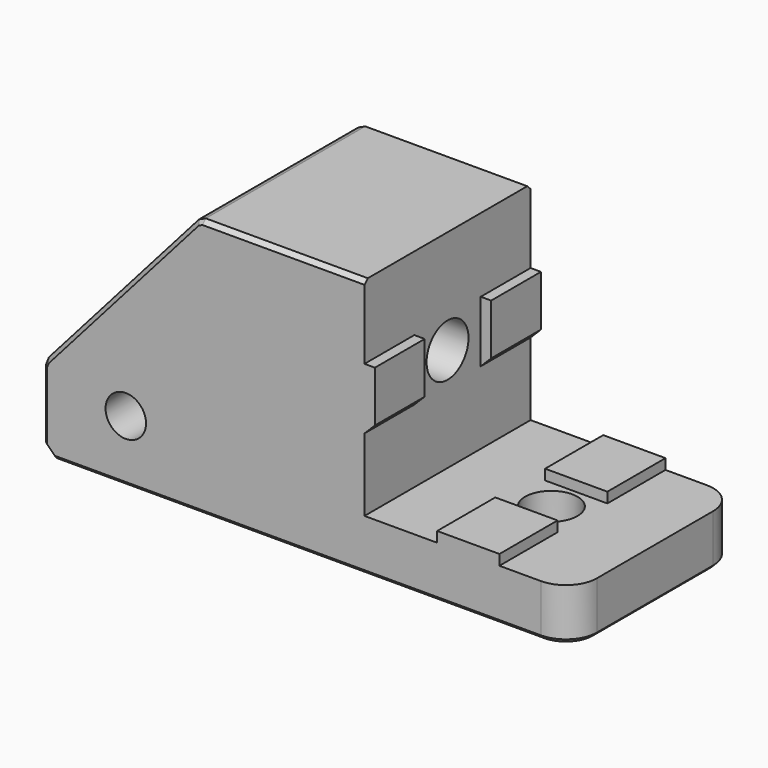
from build123d import *

# Parameters (mm, degrees)
CYLINDER012_R                      = 1.95
CYLINDER012_DEPTH                  = 10
CYLINDER011_R                      = 1.95
CYLINDER011_DEPTH                  = 10
CYLINDER007_R                      = 2.525
CYLINDER007_DEPTH                  = 37
CYLINDER008_R                      = 4.75
CYLINDER008_DEPTH                  = 13
CYLINDER006_R                      = 2.65
CYLINDER006_DEPTH                  = 2
CYLINDER005_R                      = 6.55
CYLINDER005_DEPTH                  = 5
BOX023_W                           = 12
BOX023_H                           = 8
BOX023_DEPTH                       = 10
BOX019_W                           = 2
BOX019_H                           = 6
BOX019_DEPTH                       = 5.9
BOX020_W                           = 2
BOX020_H                           = 6
BOX020_DEPTH                       = 5.9
CHAMFER004013007011015006006_SIZE  = 1
CYLINDER009_R                      = 2.525
CYLINDER009_DEPTH                  = 10
BOX018_W                           = 20
BOX018_H                           = 20
BOX018_DEPTH                       = 5
FILLET_R                           = 3
BOX021_W                           = 6
BOX021_H                           = 7
BOX021_DEPTH                       = 1
BOX022_W                           = 6
BOX022_H                           = 7
BOX022_DEPTH                       = 1
BOX017_W                           = 31
BOX017_H                           = 20
BOX017_DEPTH                       = 25
CHAMFER004013007011015006005_SIZE2 = 15
CHAMFER004013007011015006005_SIZE  = 17
CHAMFER004013007011015006007_SIZE  = 1
CHAMFER004013007011015006008_SIZE  = 0.4


with BuildPart() as cylinder012:
    # Cylinder012 → Cylinder012 (new body)
    with BuildSketch(Plane(origin=(24, 14, 41), x_dir=(1, 0, 0), z_dir=(0, -1, 0))):
        Circle(CYLINDER012_R)
    extrude(amount=CYLINDER012_DEPTH)


with BuildPart() as fusion004023:
    # Cylinder011 → Cylinder011 (new body)
    with BuildSketch(Plane(origin=(24, -4, 41), x_dir=(1, 0, 0), z_dir=(0, -1, 0))):
        Circle(CYLINDER011_R)
    extrude(amount=CYLINDER011_DEPTH)

    # Fusion004023: union Cylinder012
    add(cylinder012.part)


with BuildPart() as cylinder007:
    # Cylinder007 → Cylinder007 (new body)
    with BuildSketch(Plane(origin=(14, 0, 50), x_dir=(0, 0, -1), z_dir=(1, 0, 0))):
        Circle(CYLINDER007_R)
    extrude(amount=CYLINDER007_DEPTH)


with BuildPart() as fusion004019:
    # Cylinder008 → Cylinder008 (new body)
    with BuildSketch(Plane(origin=(14, 0, 50), x_dir=(0, 0, -1), z_dir=(1, 0, 0))):
        Circle(CYLINDER008_R)
    extrude(amount=CYLINDER008_DEPTH)

    # Fusion004019: union Cylinder007
    add(cylinder007.part)


with BuildPart() as cylinder006:
    # Cylinder006 → Cylinder006 (new body)
    with BuildSketch(Plane.XY.offset(3)):
        Circle(CYLINDER006_R)
    extrude(amount=CYLINDER006_DEPTH)


with BuildPart() as cut028006004005005:
    # Cylinder005 → Cylinder005 (new body)
    with BuildSketch(Plane.XY):
        Circle(CYLINDER005_R)
    extrude(amount=CYLINDER005_DEPTH)

    # Cut028006004005005: cut Cylinder006
    add(cylinder006.part, mode=Mode.SUBTRACT)


with BuildPart() as cut028006004005005_1:
    # Cut028006004005005 placement: moved
    add(cut028006004005005.part.moved(Location((22, 0, 33))))


with BuildPart() as fusion004022:
    # Box023 → Box023 (new body)
    with BuildSketch(Plane(origin=(7, -4, 28), x_dir=(1, 0, 0), z_dir=(0, 0, 1))):
        with Locations((6, 4)):
            Rectangle(BOX023_W, BOX023_H)
    extrude(amount=BOX023_DEPTH)

    # Fusion004022: union Cut028006004005005
    add(cut028006004005005_1.part)


with BuildPart() as cube019:
    # Box019 → Box019 (new body)
    with BuildSketch(Plane(origin=(46, -10, 47), x_dir=(1, 0, 0), z_dir=(0, 0, 1))):
        with Locations((1, 3)):
            Rectangle(BOX019_W, BOX019_H)
    extrude(amount=BOX019_DEPTH)


with BuildPart() as chamfer004013007011015006006:
    # Box020 → Box020 (new body)
    with BuildSketch(Plane(origin=(46, 4, 47), x_dir=(1, 0, 0), z_dir=(0, 0, 1))):
        with Locations((1, 3)):
            Rectangle(BOX020_W, BOX020_H)
    extrude(amount=BOX020_DEPTH)

    # Fusion004018: union Cube019
    add(cube019.part)

    # Chamfer004013007011015006006
    chamfer004013007011015006006_edges = [chamfer004013007011015006006.edges().sort_by_distance(p)[0] for p in [
        (48, 7, 47),
        (48, -7, 47),
    ]]
    chamfer(chamfer004013007011015006006_edges, length=CHAMFER004013007011015006006_SIZE)


with BuildPart() as cylinder009:
    # Cylinder009 → Cylinder009 (new body)
    with BuildSketch(Plane(origin=(57, 0, 32), x_dir=(1, 0, 0), z_dir=(0, 0, 1))):
        Circle(CYLINDER009_R)
    extrude(amount=CYLINDER009_DEPTH)


with BuildPart() as fillet_body:
    # Box018 → Box018 (new body)
    with BuildSketch(Plane(origin=(47, -10, 35), x_dir=(1, 0, 0), z_dir=(0, 0, 1))):
        with Locations((10, 10)):
            Rectangle(BOX018_W, BOX018_H)
    extrude(amount=BOX018_DEPTH)

    # Fillet
    fillet_edges = [fillet_body.edges().sort_by_distance(p)[0] for p in [
        (67, -10, 37.5),
        (67, 10, 37.5),
    ]]
    fillet(fillet_edges, radius=FILLET_R)


with BuildPart() as cube021:
    # Box021 → Box021 (new body)
    with BuildSketch(Plane(origin=(54, -10, 40), x_dir=(1, 0, 0), z_dir=(0, 0, 1))):
        with Locations((3, 3.5)):
            Rectangle(BOX021_W, BOX021_H)
    extrude(amount=BOX021_DEPTH)


with BuildPart() as cut028006004005004:
    # Box022 → Box022 (new body)
    with BuildSketch(Plane(origin=(54, 3, 40), x_dir=(1, 0, 0), z_dir=(0, 0, 1))):
        with Locations((3, 3.5)):
            Rectangle(BOX022_W, BOX022_H)
    extrude(amount=BOX022_DEPTH)

    # Fusion004020: union Fillet body, Cube021
    add(fillet_body.part)
    add(cube021.part)

    # Cut028006004005004: cut Cylinder009
    add(cylinder009.part, mode=Mode.SUBTRACT)


with BuildPart() as obj1:
    # Box017 → Box017 (new body)
    with BuildSketch(Plane(origin=(16, -10, 35), x_dir=(1, 0, 0), z_dir=(0, 0, 1))):
        with Locations((15.5, 10)):
            Rectangle(BOX017_W, BOX017_H)
    extrude(amount=BOX017_DEPTH)

    # Chamfer004013007011015006005
    chamfer004013007011015006005_edges = [obj1.edges().sort_by_distance(p)[0] for p in [
        (16, 0, 60),
    ]]
    chamfer004013007011015006005_side = obj1.faces().sort_by_distance((16, 0, 47.5))[0]
    chamfer(chamfer004013007011015006005_edges, length=CHAMFER004013007011015006005_SIZE, length2=CHAMFER004013007011015006005_SIZE2, reference=chamfer004013007011015006005_side)

    # Fusion004021: union Chamfer004013007011015006006, Cut028006004005004
    add(chamfer004013007011015006006.part)
    add(cut028006004005004.part)

    # Cut028006004005006: cut Fusion004022
    add(fusion004022.part, mode=Mode.SUBTRACT)

    # Chamfer004013007011015006007
    chamfer004013007011015006007_edges = [obj1.edges().sort_by_distance(p)[0] for p in [
        (16, 7, 35),
        (16, -7, 35),
    ]]
    chamfer(chamfer004013007011015006007_edges, length=CHAMFER004013007011015006007_SIZE)

    # Cut028006004005007: cut Fusion004019
    add(fusion004019.part, mode=Mode.SUBTRACT)

    # Chamfer004013007011015006008
    chamfer004013007011015006008_edges = [obj1.edges().sort_by_distance(p)[0] for p in [
        (16, 10, 39.5),
        (16, 0, 43),
        (16, -10, 39.5),
        (16.5, 10, 35.5),
        (23.5, 10, 51.5),
        (32, 10, 35),
        (39, 10, 60),
        (23.5, -10, 51.5),
        (31, 0, 60),
        (16.5, -10, 35.5),
        (32, -10, 35),
        (39, -10, 60),
        (55.5, 10, 35),
        (55.5, -10, 35),
        (66.12132, 9.12132, 35),
        (67, 0, 35),
        (66.12132, -9.12132, 35),
    ]]
    chamfer(chamfer004013007011015006008_edges, length=CHAMFER004013007011015006008_SIZE)

    # Cut028006004005008: cut Fusion004023
    add(fusion004023.part, mode=Mode.SUBTRACT)


solid = obj1.part
